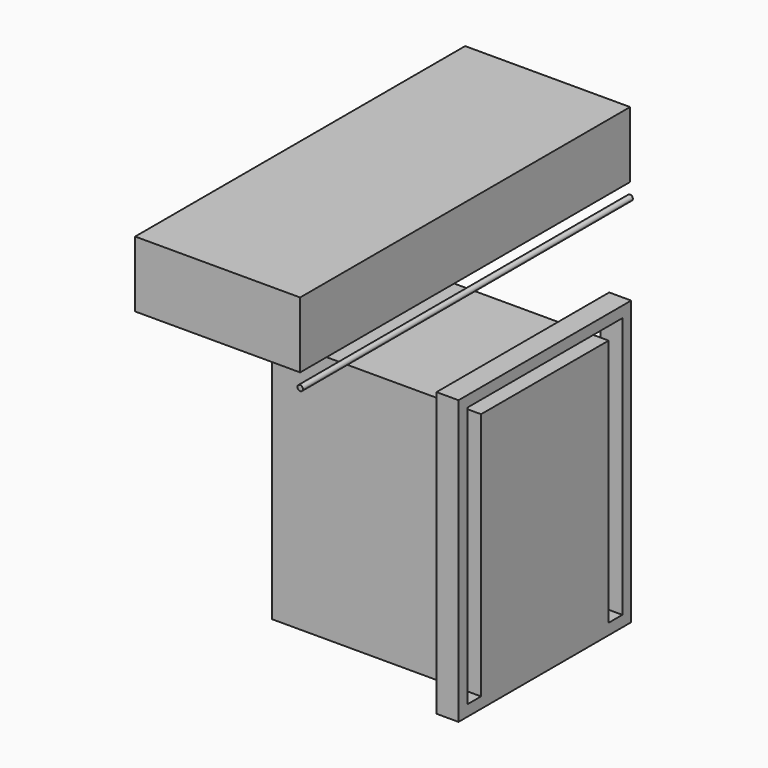
from build123d import *

# Parameters (mm, degrees)
F0_W           = 1993.9
F0_H           = 2616.2
F0_W_2         = 1790.7
F0_H_2         = 2413
F1_DEPTH       = 203.2
F3_W           = 3810
F3_H           = 609.6
F4_DEPTH       = 1524
F5_R           = 25.4
F6_DEPTH       = 1905
F6_DEPTH_BACK  = 1905
F7_W           = 762
F7_H           = 101.6
F8_DEPTH       = 609.6
F8_DEPTH_BACK  = 609.6
F9_W           = 1930.4
F9_H           = 2294.89
F10_DEPTH      = 736.6
F10_DEPTH_BACK = 736.6


with BuildPart() as f1:
    # F0 (on Right) → F1 (new body)
    with BuildSketch(Plane.YZ):
        Rectangle(F0_W, F0_H)
        Rectangle(F0_W_2, F0_H_2, mode=Mode.SUBTRACT)
    extrude(amount=F1_DEPTH)

    # F9 (on Front) → F10 (join, two sides)
    with BuildSketch(Plane.XZ) as f10_sk:
        with Locations((-762, -59.055)):
            Rectangle(F9_W, F9_H)
    extrude(amount=F10_DEPTH)
    extrude(f10_sk.sketch, amount=-F10_DEPTH_BACK)


with BuildPart() as f4:
    # F3 (on offset) → F4 (new body)
    with BuildSketch(Plane(origin=(-533.4, 0, 0), x_dir=(0, -1, 0), z_dir=(-1, 0, 0))):
        with Locations((0, 1968.5)):
            Rectangle(F3_W, F3_H)
    extrude(amount=F4_DEPTH)


with BuildPart() as f6:
    # F5 (on Front) → F6 (new body, two sides)
    with BuildSketch(Plane.XZ) as f6_sk:
        with Locations((-533.4, 1536.7)):
            Circle(F5_R)
    extrude(amount=F6_DEPTH)
    extrude(f6_sk.sketch, amount=-F6_DEPTH_BACK)


with BuildPart() as f8:
    # F7 (on Front) → F8 (new body, two sides)
    with BuildSketch(Plane.XZ) as f8_sk:
        with Locations((-1625.6, 1231.9)):
            Rectangle(F7_W, F7_H)
    extrude(amount=F8_DEPTH)
    extrude(f8_sk.sketch, amount=-F8_DEPTH_BACK)


solid = Compound([f1.part, f4.part, f6.part, f8.part])
